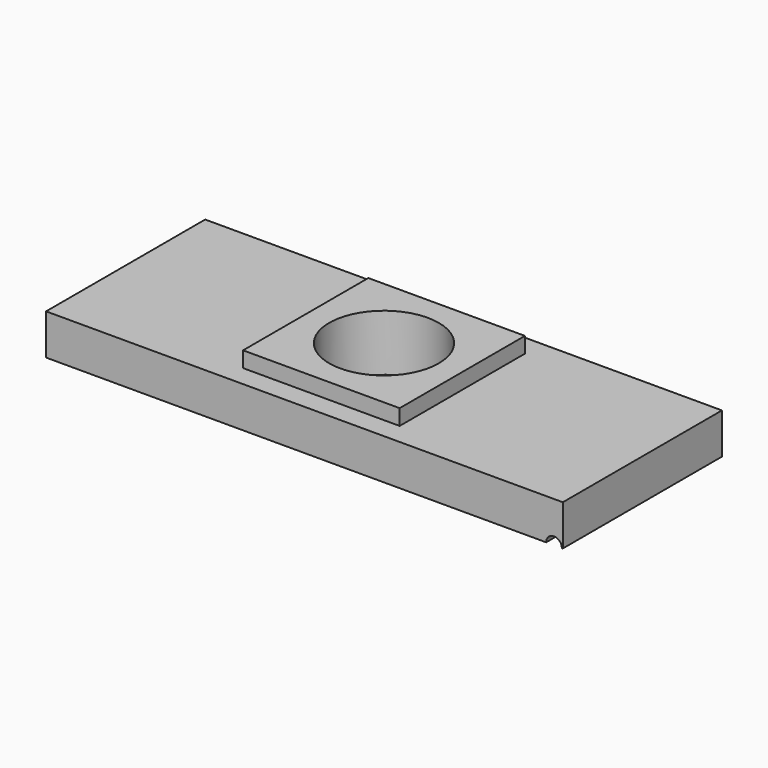
from build123d import *

# Parameters (mm, degrees)
F0_W          = 66
F0_H          = 25.4
F1_DEPTH      = 5.2
F2_W          = 20
F2_H          = 20
F3_DEPTH      = 2
F4_R          = 7
F5_DEPTH      = 16.04009
F6_R          = 1
F7_DEPTH      = 25
F7_DEPTH_BACK = 25


with BuildPart() as f1:
    # F0 (on Top) → F1 (new body)
    with BuildSketch(Plane.XY):
        Rectangle(F0_W, F0_H)
    extrude(amount=F1_DEPTH)

    # F2 (on face) → F3 (join)
    with BuildSketch(Plane.XY.offset(5.2)):
        Rectangle(F2_W, F2_H)
    extrude(amount=F3_DEPTH)

    # F4 (on face) → F5 (cut)
    with BuildSketch(Plane.XY.offset(7.2)):
        Circle(F4_R)
    extrude(amount=-F5_DEPTH, mode=Mode.SUBTRACT)

    # F6 (on Front) → F7 (cut, two sides)
    with BuildSketch(Plane.XZ) as f7_sk:
        with Locations((31.872865, 0)):
            Circle(F6_R)
    extrude(amount=F7_DEPTH, mode=Mode.SUBTRACT)
    extrude(f7_sk.sketch, amount=-F7_DEPTH_BACK, mode=Mode.SUBTRACT)


solid = f1.part
